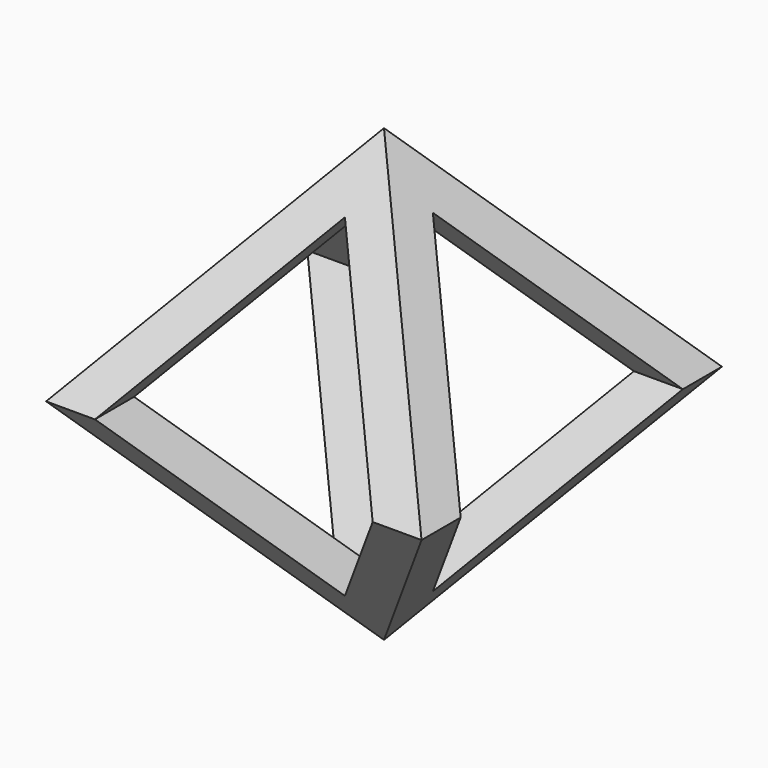
from build123d import *

# Parameters (mm, degrees)
F0_W     = 50
F0_H     = 50
F1_DEPTH = 60
F4_DEPTH = 50.001
F5_DEPTH = 50.001


with BuildPart() as f1:
    # F0 (on Top) → F1 (new body)
    with BuildSketch(Plane.XY):
        with Locations((25, 25)):
            Rectangle(F0_W, F0_H)
    extrude(amount=F1_DEPTH)

    # F2 (on face) → F4 (intersect, through all)
    with BuildSketch(Plane.XZ):
        Polygon((50, 30), (25, 60), (0, 30), (25, 0), align=None)
        Polygon((25, 7.81025), (6.508541, 30), (25, 52.18975), (43.491459, 30), align=None, mode=Mode.SUBTRACT)
    extrude(amount=-F4_DEPTH, mode=Mode.INTERSECT)

    # F3 (on face) → F5 (intersect, through all)
    with BuildSketch(Plane(origin=(0, 0, 0), x_dir=(0, -1, 0), z_dir=(-1, 0, 0))):
        Polygon((-50, 30), (-25, 0), (0, 30), (-25, 60), align=None)
        Polygon((-6.508541, 30), (-25, 7.81025), (-43.491459, 30), (-25, 52.18975), align=None, mode=Mode.SUBTRACT)
    extrude(amount=-F5_DEPTH, mode=Mode.INTERSECT)


solid = f1.part
